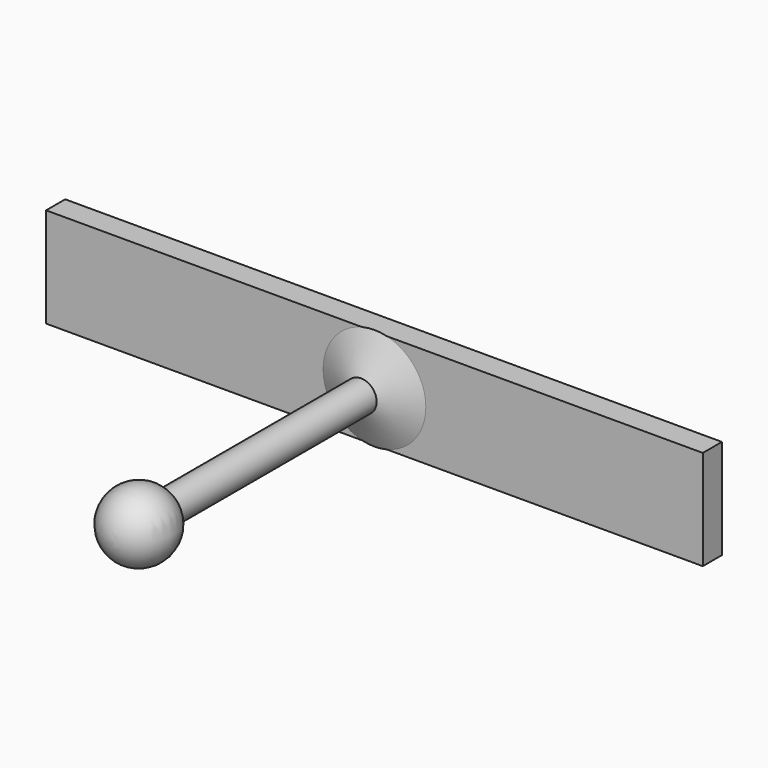
from build123d import *

# Parameters (mm, degrees)
F0_W     = 68.58
F0_H     = 4.990084
F2_DEPTH = 10.414


with BuildPart() as f1:
    # F0 (on Top) → F1 (revolve)
    with BuildSketch(Plane.XY):
        Polygon((-3.261477, 16.393739), (0, 16.393739), (0, 19.904292), (-10.727971, 19.904292), align=None)
        with BuildLine():
            ThreePointArc((-3.261477, -35.100376), (-1.675796, -34.524032), (0, -34.328411))
            Line((0, -34.328411), (0, 16.393739))
            Line((0, 16.393739), (-3.261477, 16.393739))
            Line((-3.261477, 16.393739), (-3.261477, -35.100376))
        make_face()
        with BuildLine():
            Line((0, -48.879802), (0, -34.328411))
            ThreePointArc((0, -34.328411), (-1.675796, -34.524032), (-3.261477, -35.100376))
            ThreePointArc((-3.261477, -35.100376), (-7.080074, -43.279902), (0, -48.879802))
        make_face()
    revolve(axis=Axis((0, -8.967336, 0), (0, -1, 0)))

    # F0 (on Top) → F2 (join, symmetric)
    with BuildSketch(Plane.XY):
        Polygon((-10.727971, 19.904292), (0, 19.904292), (0, 24.894376), (-68.58, 24.894376), (-68.58, 19.904292), align=None)
        with Locations((34.29, 22.399334)):
            Rectangle(F0_W, F0_H)
    extrude(amount=F2_DEPTH, both=True)


solid = f1.part
